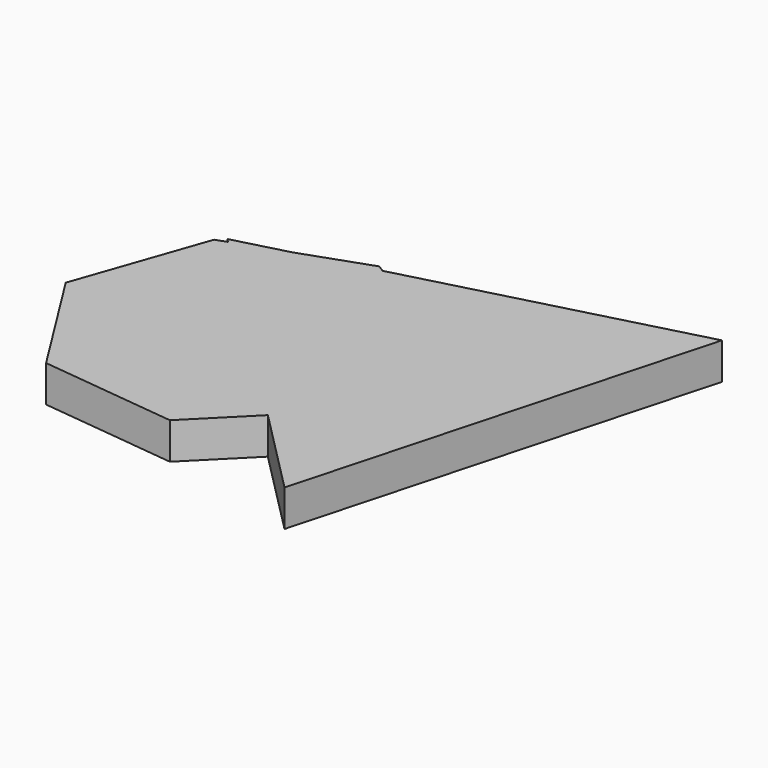
from build123d import *

# Parameters (mm, degrees)
F1_DEPTH = 7.366


with BuildPart() as f1:
    # F0 (on Top) → F1 (new body)
    with BuildSketch(Plane.XY):
        Polygon((15.7023970503, -0.3485125312), (14.3449331899, 0.5018823129), (0.7010700917, -4.2930147397), align=None)
        Polygon((72.1815829965, 14.5023252855), (15.7023970503, -0.3485125312), (37.6951557319, -14.1260642838), (40.8171921849, -41.502378915), (32.3127703641, -50.0298144352), (49.7593244376, -67.6403014412), align=None)
        Polygon((37.6951557319, -14.1260642838), (15.7023970503, -0.3485125312), (0.7010700917, -4.2930147397), (-9.4604333978, -7.8640974148), (32.3127703641, -50.0298144352), (40.8171921849, -41.502378915), align=None)
        Polygon((-9.4604333978, -7.8640974148), (0.7010700917, -4.2930147397), (-10.1671477618, -7.1507425556), align=None)
        Polygon((32.3127703641, -50.0298144352), (-9.4604333978, -7.8640974148), (-11.6502816094, -8.633681268), (-20.7155617162, -34.6534893185), (-6.0245663122, -57.9640956692), (21.3600854217, -61.0121382883), align=None)
    extrude(amount=F1_DEPTH)


solid = f1.part
